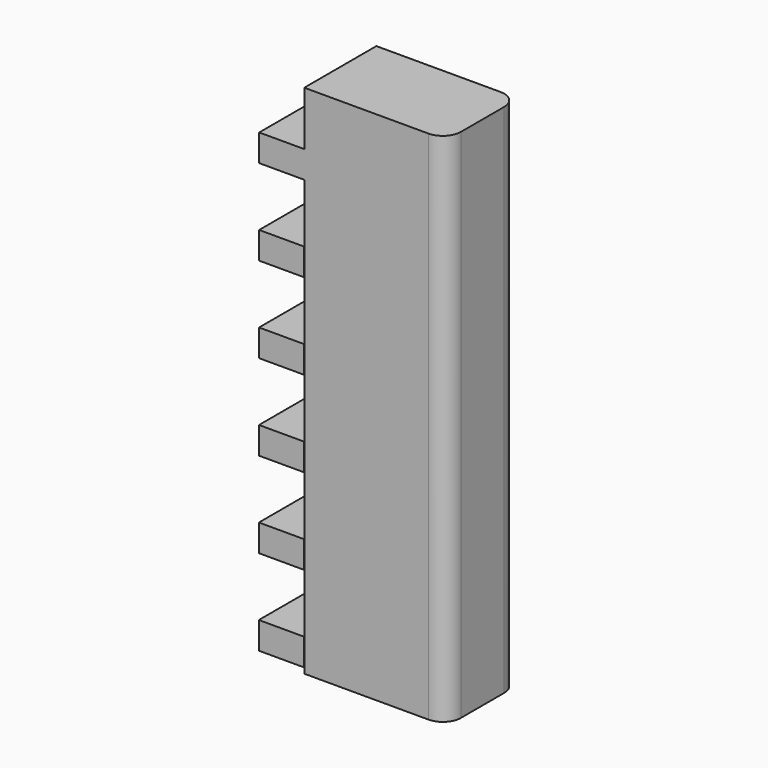
from build123d import *

# Parameters (mm, degrees)
F0_W     = 12.7
F0_H     = 7.62
F1_DEPTH = 25.4
F2_R     = 5.08


with BuildPart() as f1:
    # F0 (on Front) → F1 (new body)
    with BuildSketch(Plane.XZ):
        Polygon((20.043918, -72.721318), (20.043918, 72.721318), (-20.043918, 72.721318), (-20.043918, 57.481314), (-20.043918, 49.861314), (-20.043918, -72.721318), align=None)
        with Locations((-26.393918, 53.671314)):
            Rectangle(F0_W, F0_H)
        with Locations((-26.416, 29.464)):
            Rectangle(F0_W, F0_H)
        with Locations((-26.438082, 5.256686)):
            Rectangle(F0_W, F0_H)
        with Locations((-26.460165, -18.950627)):
            Rectangle(F0_W, F0_H)
        with Locations((-26.482247, -43.157941)):
            Rectangle(F0_W, F0_H)
        with Locations((-26.504329, -67.365255)):
            Rectangle(F0_W, F0_H)
    extrude(amount=F1_DEPTH)

    # F2
    f2_edges = [f1.edges().sort_by_distance(p)[0] for p in [
        (20.043918, -25.4, 0),
        (20.043918, 0, 0),
    ]]
    fillet(f2_edges, radius=F2_R)


solid = f1.part
